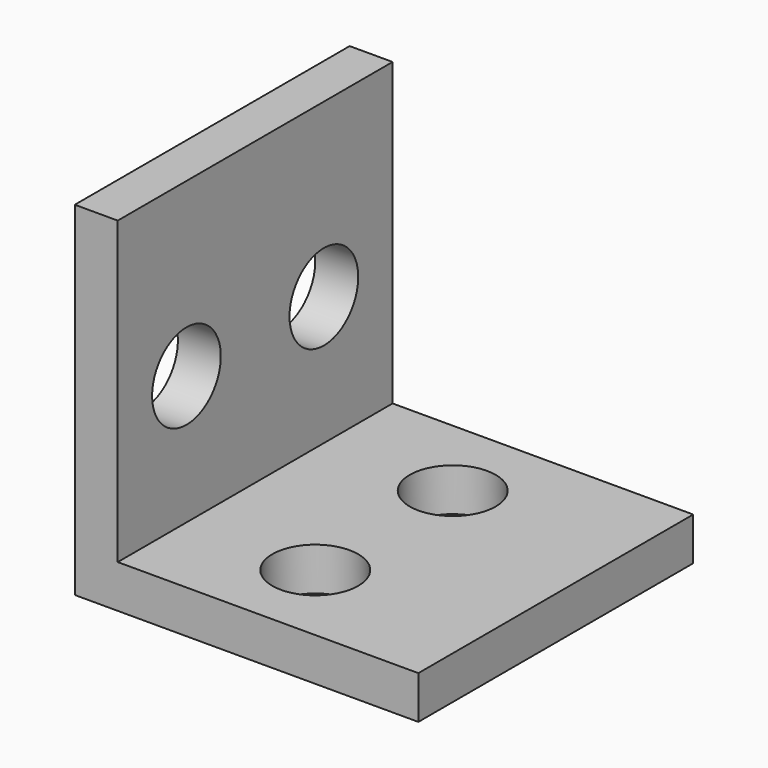
from build123d import *

# Parameters (mm, degrees)
F1_DEPTH = 25.4
F2_R     = 3.175
F3_DEPTH = 25.4
F4_R     = 3.175
F5_DEPTH = 25.4


with BuildPart() as f1:
    # F0 (on Front) → F1 (new body)
    with BuildSketch(Plane.XZ):
        Polygon((0, 25.4), (0, 0), (25.4, 0), (25.4, 3.175), (3.175, 3.175), (3.175, 25.4), align=None)
    extrude(amount=F1_DEPTH)

    # F2 (on face) → F3 (cut)
    with BuildSketch(Plane(origin=(0, 0, 0), x_dir=(0, -1, 0), z_dir=(-1, 0, 0))):
        with Locations((6.35, 12.7)):
            Circle(F2_R)
        with Locations((19.05, 12.7)):
            Circle(F2_R)
    extrude(amount=-F3_DEPTH, mode=Mode.SUBTRACT)

    # F4 (on face) → F5 (cut)
    with BuildSketch(Plane(origin=(0, 0, 0), x_dir=(1, 0, 0), z_dir=(0, 0, -1))):
        with Locations((12.7, 19.05)):
            Circle(F4_R)
        with Locations((12.7, 6.35)):
            Circle(F4_R)
    extrude(amount=-F5_DEPTH, mode=Mode.SUBTRACT)


solid = f1.part
